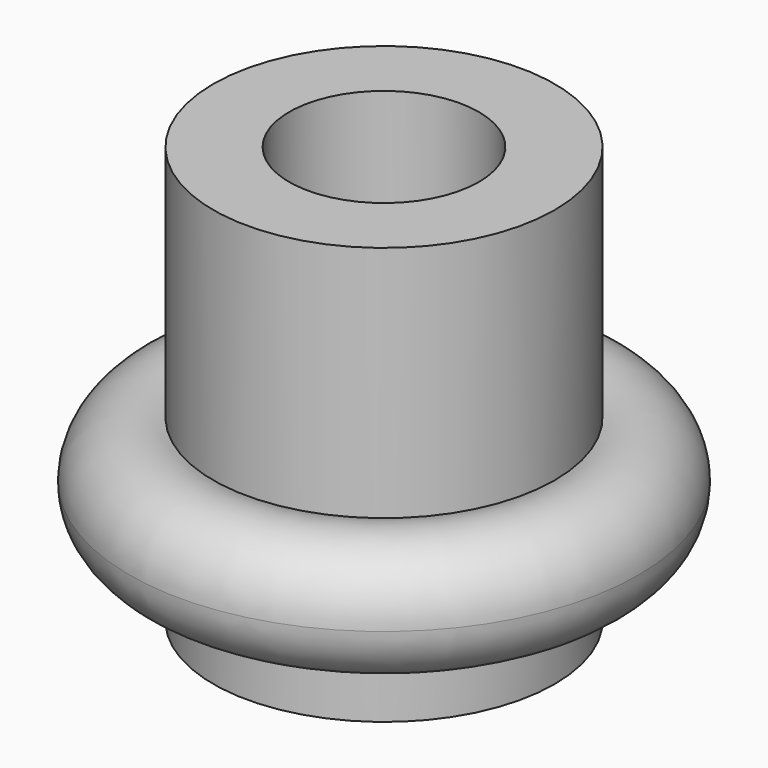
from build123d import *

# Parameters (mm, degrees)
F3_W = 2
F3_H = 11
F1_R = 1.6


with BuildPart() as f0:
    # F3 (on Front) → F0 (revolve)
    with BuildSketch(Plane.XZ):
        with Locations((3.5, 5.5)):
            Rectangle(F3_W, F3_H)
    revolve(axis=Axis((0, 0, 71.798525), (0, 0, 1)))

    # F1 (on Front) → F2 (revolve)
    with BuildSketch(Plane.XZ):
        with Locations((5.11, 3.25)):
            Circle(F1_R)
    revolve(axis=Axis((0, 0, 0), (0, 0, 1)))


solid = f0.part
